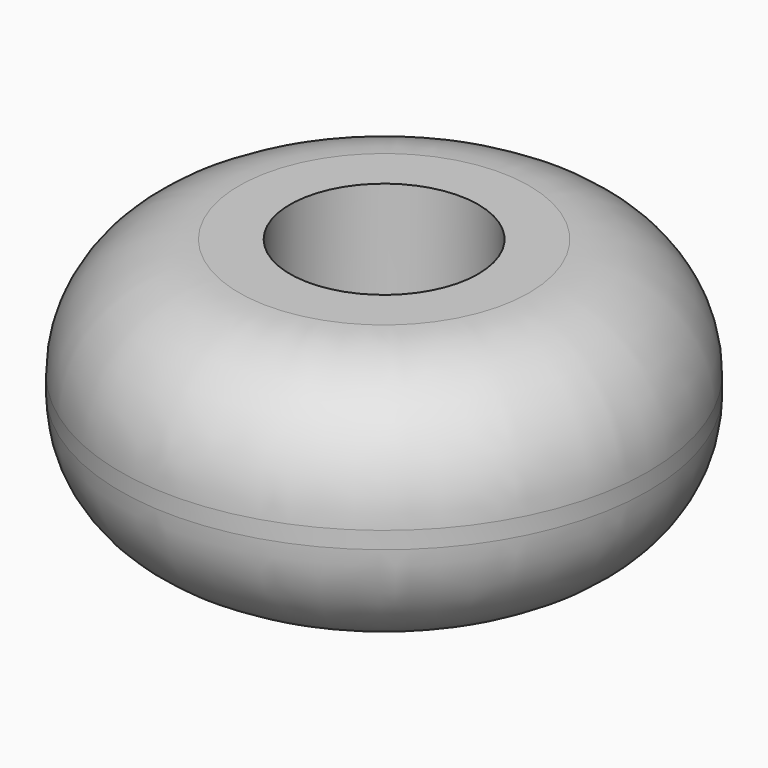
from build123d import *

# Parameters (mm, degrees)
F0_W = 10
F0_H = 15
F2_R = 7


with BuildPart() as f1:
    # F0 (on Front) → F1 (revolve)
    with BuildSketch(Plane.XZ):
        with Locations((10.538877, -6.768337)):
            Rectangle(F0_W, F0_H)
    revolve(axis=Axis((0, 0, -1.957991), (0, 0, -1)))

    # F2
    f2_edges = [f1.edges().sort_by_distance(p)[0] for p in [
        (-15.538877, 0, 0.731663),
        (-15.538877, 0, -14.268337),
    ]]
    fillet(f2_edges, radius=F2_R)


solid = f1.part
